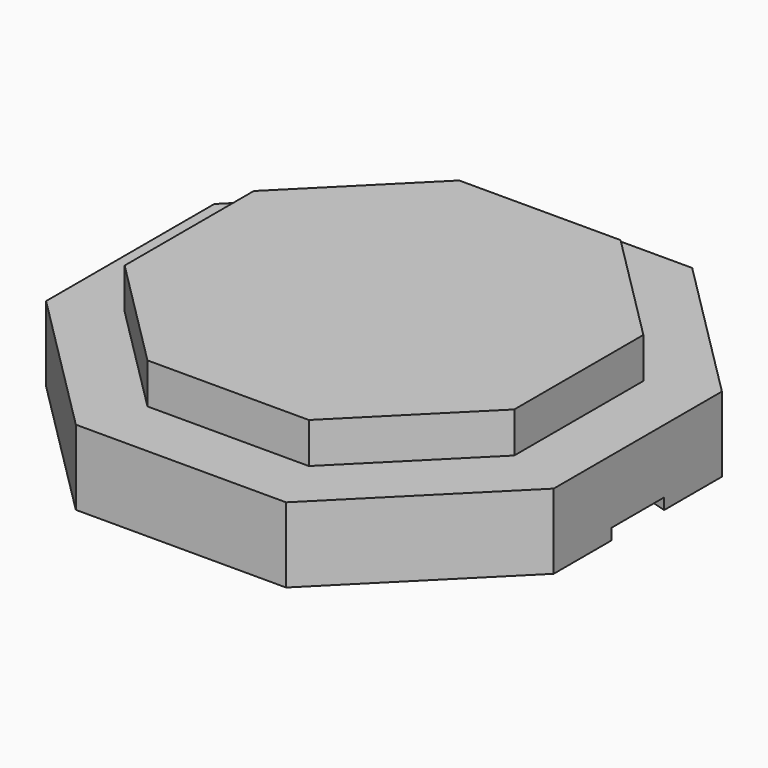
from build123d import *

# Parameters (mm, degrees)
PAD005_DEPTH = 0.11
PAD006_DEPTH = 0.63
PAD007_DEPTH = 0.4


with BuildPart() as part:
    # Sketch009 → Pad005 (new body)
    with BuildSketch(Plane.XY):
        Polygon((-1.037072, 2.503714), (1.037072, 2.503714), (2.503714, 1.037072), (2.503714, 0.325), (1.863714, 0.51), (1.533714, 0.51), (1.533714, -0.51), (1.863714, -0.51), (2.503714, -0.325), (2.503714, -1.037072), (1.037072, -2.503714), (-1.037072, -2.503714), (-2.503714, -1.037072), (-2.503714, -0.325), (-1.863714, -0.51), (-1.533714, -0.51), (-1.533714, 0.51), (-1.863714, 0.51), (-2.503714, 0.325), (-2.503714, 1.037072), align=None)
    extrude(amount=PAD005_DEPTH)

    # Sketch012 (on Face22 of Pad005) → Pad006 (join)
    with BuildSketch(Plane.XY.offset(0.11)):
        Polygon((-1.037072, 2.503714), (1.037072, 2.503714), (2.503714, 1.037072), (2.503714, -1.037072), (1.037072, -2.503714), (-1.037072, -2.503714), (-2.503714, -1.037072), (-2.503714, 1.037072), align=None)
    extrude(amount=PAD006_DEPTH)

    # Sketch013 (on Face1 of Pad006) → Pad007 (join)
    with BuildSketch(Plane.XY.offset(0.74)):
        Polygon((-0.795982, 1.921669), (0.795982, 1.921669), (1.921669, 0.795982), (1.921669, -0.795982), (0.795982, -1.921669), (-0.795982, -1.921669), (-1.921669, -0.795982), (-1.921669, 0.795982), align=None)
    extrude(amount=PAD007_DEPTH)


solid = part.part
